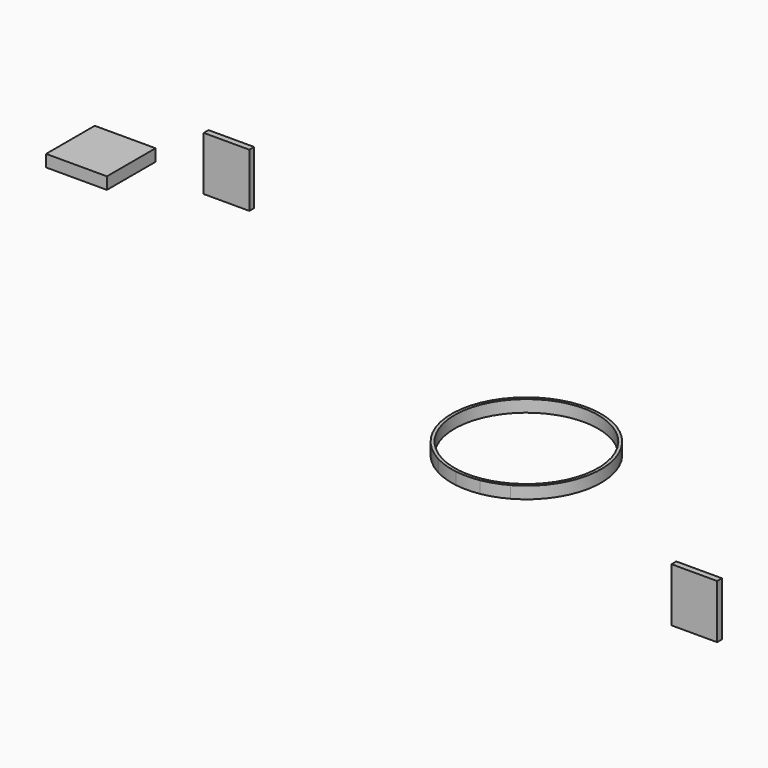
from build123d import *

# Parameters (mm, degrees)
F0_W     = 50.8
F0_H     = 50.8
F1_DEPTH = 10
F2_W     = 38.1
F2_H     = 45
F3_DEPTH = 5
F4_DEPTH = 10
F5_T     = -2.54


with BuildPart() as f1:
    # F0 (on Top) → F1 (new body)
    with BuildSketch(Plane.XY):
        with Locations((-471.7197247505, 148.414934361)):
            Rectangle(F0_W, F0_H)
    extrude(amount=F1_DEPTH)

    # F0 (on Top) → F4 (join)
    with BuildSketch(Plane.XY):
        with Locations((-471.7197247505, 148.414934361)):
            Rectangle(F0_W, F0_H)
    extrude(amount=F4_DEPTH)


with BuildPart() as f1b:
    # F0 (on Top) → F1, piece 2 (new body)
    with BuildSketch(Plane.XY):
        with BuildLine():
            Line((-8.131954578, -53.7377994335), (-28.121754578, -53.7377994335))
            ThreePointArc((-28.121754578, -53.7377994335), (-18.408530018, -57.905263406), (-8.131954578, -60.3763936215))
            Line((-8.131954578, -60.3763936215), (-8.131954578, -53.7377994335))
        make_face()
        with BuildLine():
            ThreePointArc((31.857845422, -53.1052611768), (55.219168501, -30.1797705392), (63.7898047969, 1.4093688994))
            ThreePointArc((63.7898047969, 1.4093688994), (-30.8662796901, 55.0026168926), (-28.121754578, -53.7377994335))
            Line((-28.121754578, -53.7377994335), (-8.131954578, -53.7377994335))
            Line((-8.131954578, -53.7377994335), (-8.131954578, -60.3763936215))
            ThreePointArc((-8.131954578, -60.3763936215), (1.8755927876, -61.0878858598), (11.868045422, -60.1889332305))
            Line((11.868045422, -60.1889332305), (11.868045422, -53.1052611768))
            Line((11.868045422, -53.1052611768), (31.857845422, -53.1052611768))
        make_face()
        with BuildLine():
            ThreePointArc((11.868045422, -60.1889332305), (22.1655974194, -57.5011673601), (31.857845422, -53.1052611768))
            Line((31.857845422, -53.1052611768), (11.868045422, -53.1052611768))
            Line((11.868045422, -53.1052611768), (11.868045422, -60.1889332305))
        make_face()
    extrude(amount=F1_DEPTH)

    # F5
    f5_openings = [f1b.faces().sort_by_distance(p)[0] for p in [
        (1.289805, 1.409369, 10),
        (1.289805, 1.409369, 0),
    ]]
    offset(amount=F5_T, openings=f5_openings)


with BuildPart() as f3:
    # F2 (on Front) → F3 (new body)
    with BuildSketch(Plane.XZ):
        with Locations((146.6897795882, -58.9751662547)):
            Rectangle(F2_W, F2_H)
    extrude(amount=F3_DEPTH)


with BuildPart() as f3b:
    # F2 (on Front) → F3, piece 2 (new body)
    with BuildSketch(Plane.XZ):
        with Locations((-243.9871954038, 131.100037545)):
            Rectangle(F2_W, F2_H)
    extrude(amount=F3_DEPTH)


solid = Compound([f1.part, f1b.part, f3.part, f3b.part])
